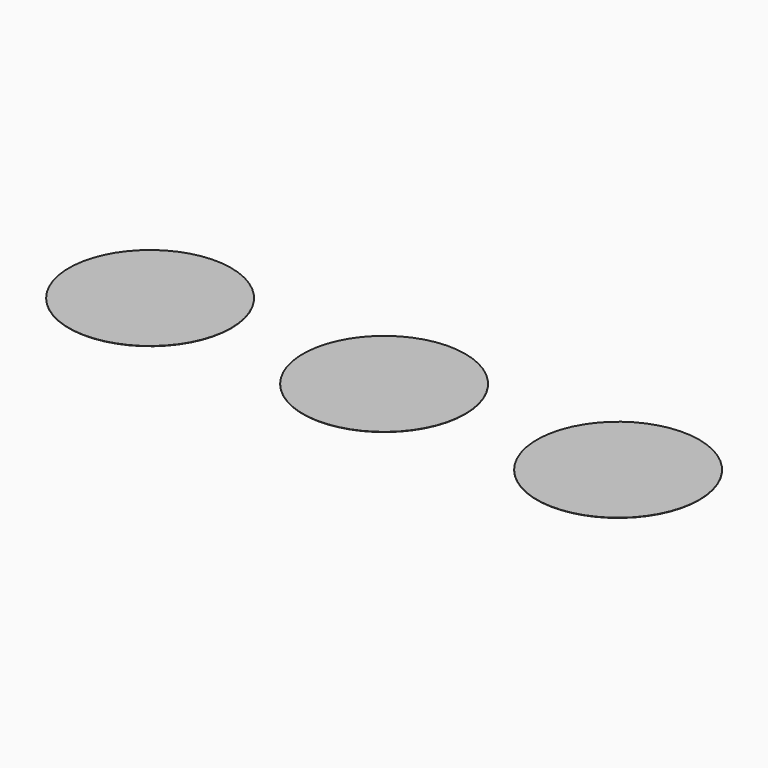
from build123d import *

# Parameters (mm, degrees)
F0_R     = 8
F1_DEPTH = 0.025


with BuildPart() as f1:
    # F0 (on Top) → F1 (new body)
    with BuildSketch(Plane.XY):
        with Locations((-23.05, 0)):
            Circle(F0_R)
    extrude(amount=F1_DEPTH)


with BuildPart() as f1b:
    # F0 (on Top) → F1, piece 2 (new body)
    with BuildSketch(Plane.XY):
        Circle(F0_R)
    extrude(amount=F1_DEPTH)


with BuildPart() as f1c:
    # F0 (on Top) → F1, piece 3 (new body)
    with BuildSketch(Plane.XY):
        with Locations((23.05, 0)):
            Circle(F0_R)
    extrude(amount=F1_DEPTH)


with BuildPart() as f1b_1:
    # F2: moved
    add(f1b.part.moved(Location((0, 0, 0.05))))


with BuildPart() as f1c_1:
    # F3: moved
    add(f1c.part.moved(Location((0, 0, 0.1))))


solid = Compound([f1.part, f1b_1.part, f1c_1.part])
